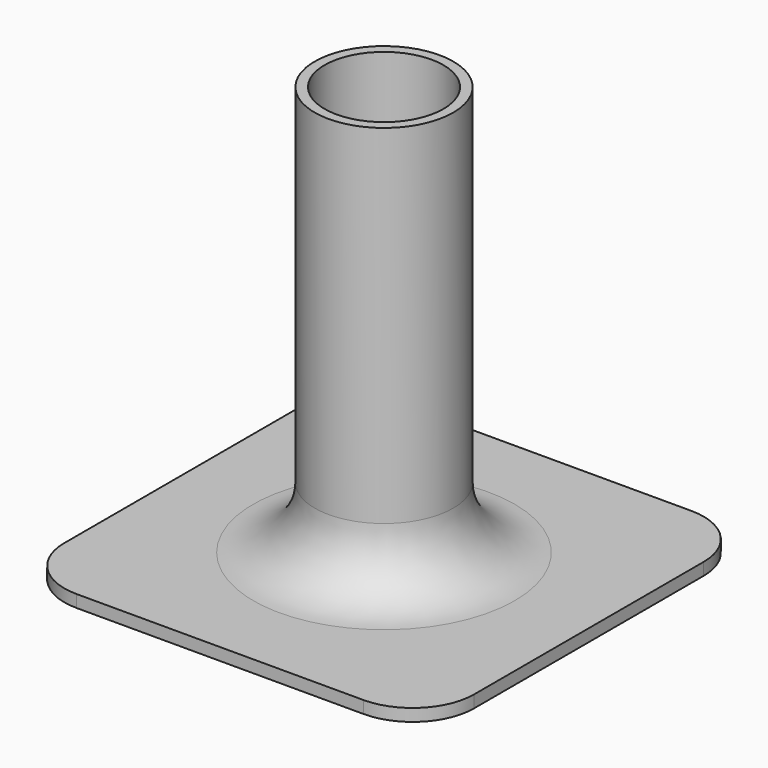
from build123d import *

# Parameters (mm, degrees)
F0_W     = 100
F0_H     = 100
F1_DEPTH = 3
F2_R     = 16.9
F2_R_2   = 14.5
F3_DEPTH = 100
F4_R     = 15
F5_R     = 5
F6_DEPTH = 25


with BuildPart() as f1:
    # F0 (on Top) → F1 (new body)
    with BuildSketch(Plane.XY):
        Rectangle(F0_W, F0_H)
    extrude(amount=F1_DEPTH)

    # F2 (on face) → F3 (join)
    with BuildSketch(Plane.XY.offset(3)):
        Circle(F2_R)
        Circle(F2_R_2, mode=Mode.SUBTRACT)
    extrude(amount=F3_DEPTH)

    # F4
    f4_edges = [f1.edges().sort_by_distance(p)[0] for p in [
        (-16.9, 0, 3),
        (50, -50, 1.5),
        (50, 50, 1.5),
        (-50, 50, 1.5),
        (-50, -50, 1.5),
    ]]
    fillet(f4_edges, radius=F4_R)

    # F5 (on face) → F6 (cut)
    with BuildSketch(Plane.XY.offset(3)):
        Circle(F5_R)
    extrude(amount=-F6_DEPTH, mode=Mode.SUBTRACT)


solid = f1.part
